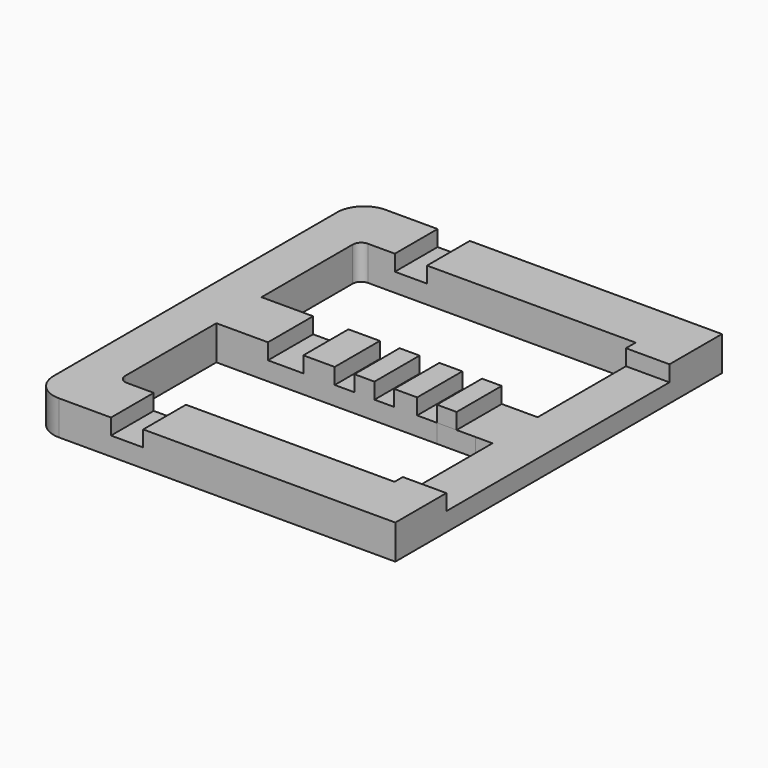
from build123d import *

# Parameters (mm, degrees)
F0_W     = 11.7459690753
F0_H     = 21.1134971385
F0_W_2   = 7.4946475541
F0_W_3   = 8.5883293627
F0_W_4   = 7.3758164777
F0_W_5   = 12.0480440893
F0_H_2   = 20
F0_W_6   = 7.0430640179
F0_W_7   = 7.3897239985
F0_W_8   = 13.233055636
F1_DEPTH = 6.9496184587
F2_DEPTH = 12.8957163543


with BuildPart() as f1:
    # F0 (on Top) → F1 (new body)
    with BuildSketch(Plane.XY):
        with BuildLine():
            ThreePointArc((-67.9728106684, -66.3498451509), (-65.0298903751, -73.4546832361), (-57.9250522899, -76.3976035294))
            Line((-57.9250522899, -76.3976035294), (-38.4420022005, -76.3976035294))
            Line((-38.4420022005, -76.3976035294), (-38.4420022005, -56.3976035294))
            Line((-38.4420022005, -56.3976035294), (-48.5088512664, -56.3976035294))
            ThreePointArc((-48.5088512664, -56.3976035294), (-50.7482758166, -55.4700035088), (-51.6758758372, -53.2305789586))
            Line((-51.6758758372, -53.2305789586), (-51.6758758372, -10.5567485693))
            Line((-51.6758758372, -10.5567485693), (-32.3687487098, -10.5567485693))
            Line((-32.3687487098, -10.5567485693), (-32.3687487098, 10.5567485693))
            Line((-32.3687487098, 10.5567485693), (-51.6758758372, 10.5567485693))
            Line((-51.6758758372, 10.5567485693), (-51.6758758372, 53.2305789586))
            ThreePointArc((-51.6758758372, 53.2305789586), (-50.7482758166, 55.4700035088), (-48.5088512664, 56.3976035294))
            Line((-48.5088512664, 56.3976035294), (-38.4420022005, 56.3976035294))
            Line((-38.4420022005, 56.3976035294), (-38.4420022005, 76.3976035294))
            Line((-38.4420022005, 76.3976035294), (-57.9250522899, 76.3976035294))
            ThreePointArc((-57.9250522899, 76.3976035294), (-65.0298903751, 73.4546832361), (-67.9728106684, 66.3498451509))
            Line((-67.9728106684, 66.3498451509), (-67.9728106684, -66.3498451509))
        make_face()
        Polygon((-26.3939581113, -56.3976035294), (-26.3939581113, -76.3976035294), (67.9728106684, -76.3976035294), (67.9728106684, -52.521086779), (51.6758758372, -52.521086779), (51.6758758372, -56.3976035294), align=None)
        with Locations((-13.2627085361, 0)):
            Rectangle(F0_W, F0_H)
        with Locations((3.747323777, 0)):
            Rectangle(F0_W_2, F0_H)
        with Locations((19.1785362339, 0)):
            Rectangle(F0_W_3, F0_H)
        with Locations((34.5503331526, 0)):
            Rectangle(F0_W_4, F0_H)
        Polygon((51.6758758372, 51.8700251389), (67.9728106684, 51.8700251389), (67.9728106684, 76.3976035294), (-26.3939581113, 76.3976035294), (-26.3939581113, 56.3976035294), (51.6758758372, 56.3976035294), align=None)
        with Locations((-32.4179801559, 66.3976035294)):
            Rectangle(F0_W_5, F0_H_2)
        Polygon((51.6758758372, -52.521086779), (67.9728106684, -52.521086779), (67.9728106684, 51.8700251389), (51.6758758372, 51.8700251389), (51.6758758372, 10.5567485693), (45.2813054094, 10.5567485693), (45.2813054094, -10.5567485693), (51.6758758372, -10.5567485693), align=None)
        with Locations((41.7597734004, 0)):
            Rectangle(F0_W_6, F0_H)
        with Locations((27.1675629145, 0)):
            Rectangle(F0_W_7, F0_H)
        with Locations((11.1895095533, 0)):
            Rectangle(F0_W_7, F0_H)
        with Locations((-3.6948619992, 0)):
            Rectangle(F0_W_7, F0_H)
        with Locations((-25.7522208918, 0)):
            Rectangle(F0_W_8, F0_H)
        with Locations((-32.4179801559, -66.3976035294)):
            Rectangle(F0_W_5, F0_H_2)
    extrude(amount=F1_DEPTH)

    # F0 (on Top) → F2 (join)
    with BuildSketch(Plane.XY):
        with BuildLine():
            ThreePointArc((-67.9728106684, -66.3498451509), (-65.0298903751, -73.4546832361), (-57.9250522899, -76.3976035294))
            Line((-57.9250522899, -76.3976035294), (-38.4420022005, -76.3976035294))
            Line((-38.4420022005, -76.3976035294), (-38.4420022005, -56.3976035294))
            Line((-38.4420022005, -56.3976035294), (-48.5088512664, -56.3976035294))
            ThreePointArc((-48.5088512664, -56.3976035294), (-50.7482758166, -55.4700035088), (-51.6758758372, -53.2305789586))
            Line((-51.6758758372, -53.2305789586), (-51.6758758372, -10.5567485693))
            Line((-51.6758758372, -10.5567485693), (-32.3687487098, -10.5567485693))
            Line((-32.3687487098, -10.5567485693), (-32.3687487098, 10.5567485693))
            Line((-32.3687487098, 10.5567485693), (-51.6758758372, 10.5567485693))
            Line((-51.6758758372, 10.5567485693), (-51.6758758372, 53.2305789586))
            ThreePointArc((-51.6758758372, 53.2305789586), (-50.7482758166, 55.4700035088), (-48.5088512664, 56.3976035294))
            Line((-48.5088512664, 56.3976035294), (-38.4420022005, 56.3976035294))
            Line((-38.4420022005, 56.3976035294), (-38.4420022005, 76.3976035294))
            Line((-38.4420022005, 76.3976035294), (-57.9250522899, 76.3976035294))
            ThreePointArc((-57.9250522899, 76.3976035294), (-65.0298903751, 73.4546832361), (-67.9728106684, 66.3498451509))
            Line((-67.9728106684, 66.3498451509), (-67.9728106684, -66.3498451509))
        make_face()
        with Locations((-13.2627085361, 0)):
            Rectangle(F0_W, F0_H)
        with Locations((3.747323777, 0)):
            Rectangle(F0_W_2, F0_H)
        with Locations((19.1785362339, 0)):
            Rectangle(F0_W_3, F0_H)
        with Locations((34.5503331526, 0)):
            Rectangle(F0_W_4, F0_H)
        Polygon((-26.3939581113, -56.3976035294), (-26.3939581113, -76.3976035294), (67.9728106684, -76.3976035294), (67.9728106684, -52.521086779), (51.6758758372, -52.521086779), (51.6758758372, -56.3976035294), align=None)
        Polygon((51.6758758372, 51.8700251389), (67.9728106684, 51.8700251389), (67.9728106684, 76.3976035294), (-26.3939581113, 76.3976035294), (-26.3939581113, 56.3976035294), (51.6758758372, 56.3976035294), align=None)
    extrude(amount=F2_DEPTH)


solid = f1.part
